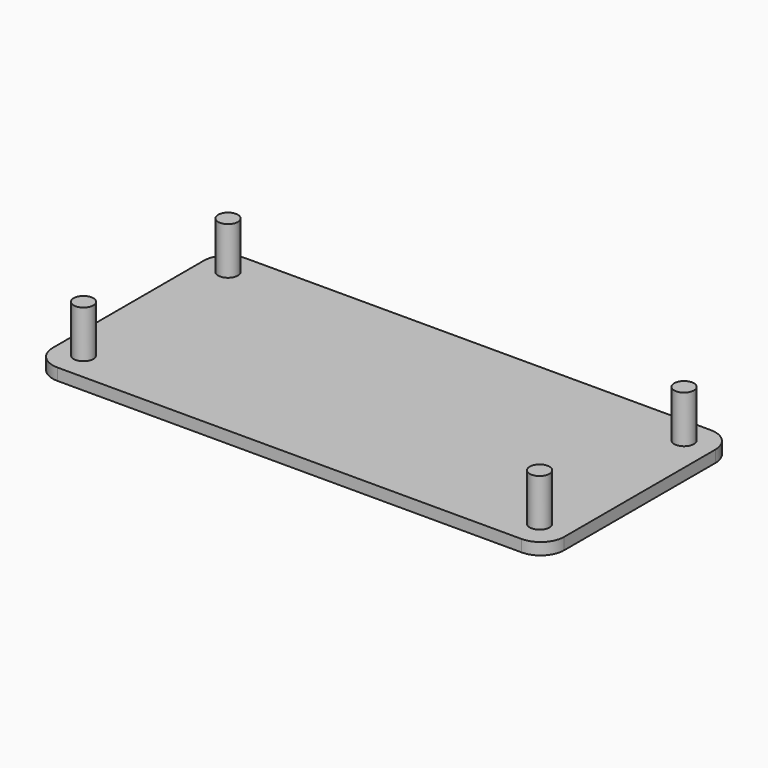
from build123d import *

# Parameters (mm, degrees)
F0_R     = 1.25
F1_DEPTH = 7.5
F2_DEPTH = 1.5


with BuildPart() as f1:
    # F0 (on Top) → F1 (new body)
    with BuildSketch(Plane.XY):
        with Locations((-29.1, -11.35)):
            Circle(F0_R)
        with Locations((-29.1, 11.6)):
            Circle(F0_R)
        with Locations((28.85, 11.6)):
            Circle(F0_R)
        with Locations((28.85, -11.35)):
            Circle(F0_R)
    extrude(amount=F1_DEPTH)


with BuildPart() as f2:
    # F0 (on Top) → F2 (new body)
    with BuildSketch(Plane.XY):
        with BuildLine():
            Line((-29.5, -15), (29.5, -15))
            ThreePointArc((29.5, -15), (31.62132, -14.12132), (32.5, -12))
            Line((32.5, -12), (32.5, 12))
            ThreePointArc((32.5, 12), (31.62132, 14.12132), (29.5, 15))
            Line((29.5, 15), (-29.5, 15))
            ThreePointArc((-29.5, 15), (-31.62132, 14.12132), (-32.5, 12))
            Line((-32.5, 12), (-32.5, -12))
            ThreePointArc((-32.5, -12), (-31.62132, -14.12132), (-29.5, -15))
        make_face()
        with Locations((-29.1, -11.35)):
            Circle(F0_R, mode=Mode.SUBTRACT)
        with Locations((28.85, -11.35)):
            Circle(F0_R, mode=Mode.SUBTRACT)
        with Locations((-29.1, 11.6)):
            Circle(F0_R, mode=Mode.SUBTRACT)
        with Locations((28.85, 11.6)):
            Circle(F0_R, mode=Mode.SUBTRACT)
    extrude(amount=F2_DEPTH)


solid = Compound([f1.part, f2.part])
